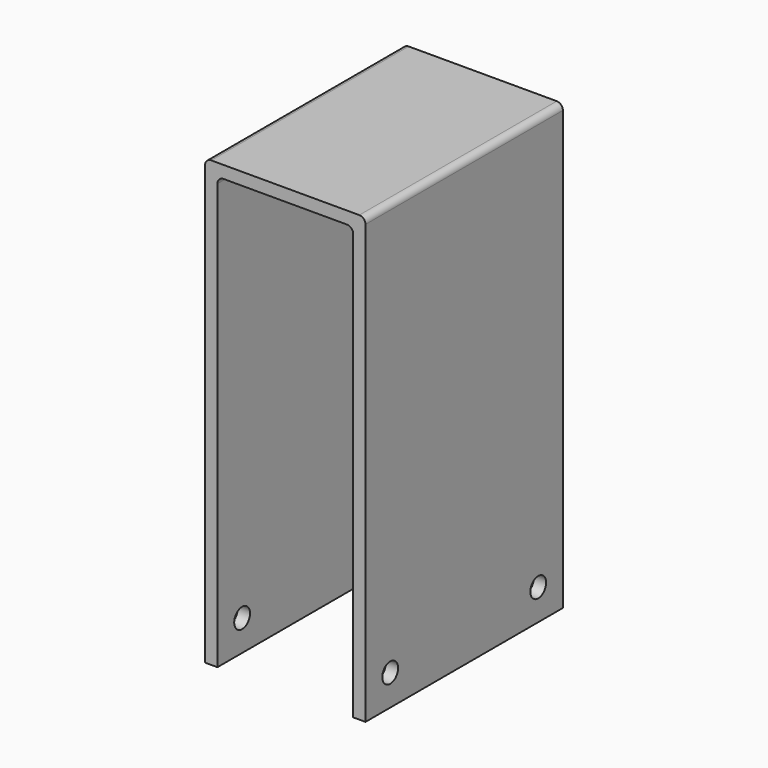
from build123d import *

# Parameters (mm, degrees)
F1_DEPTH = 200
F2_R     = 5
F3_R     = 8
F4_DEPTH = 400


with BuildPart() as f1:
    # F0 (on Front) → F1 (new body)
    with BuildSketch(Plane.XZ):
        Polygon((0, 360), (0, 0), (10, 0), (10, 350), (120, 350), (120, 0), (130, 0), (130, 360), align=None)
    extrude(amount=F1_DEPTH)

    # F2
    f2_edges = [f1.edges().sort_by_distance(p)[0] for p in [
        (130, -100, 360),
        (0, -100, 360),
        (10, -100, 350),
        (120, -100, 350),
    ]]
    fillet(f2_edges, radius=F2_R)

    # F3 (on face) → F4 (cut)
    with BuildSketch(Plane.YZ.offset(130)):
        with Locations((-25, 25)):
            Circle(F3_R)
        with Locations((-175, 25)):
            Circle(F3_R)
    extrude(amount=-F4_DEPTH, mode=Mode.SUBTRACT)


solid = f1.part
